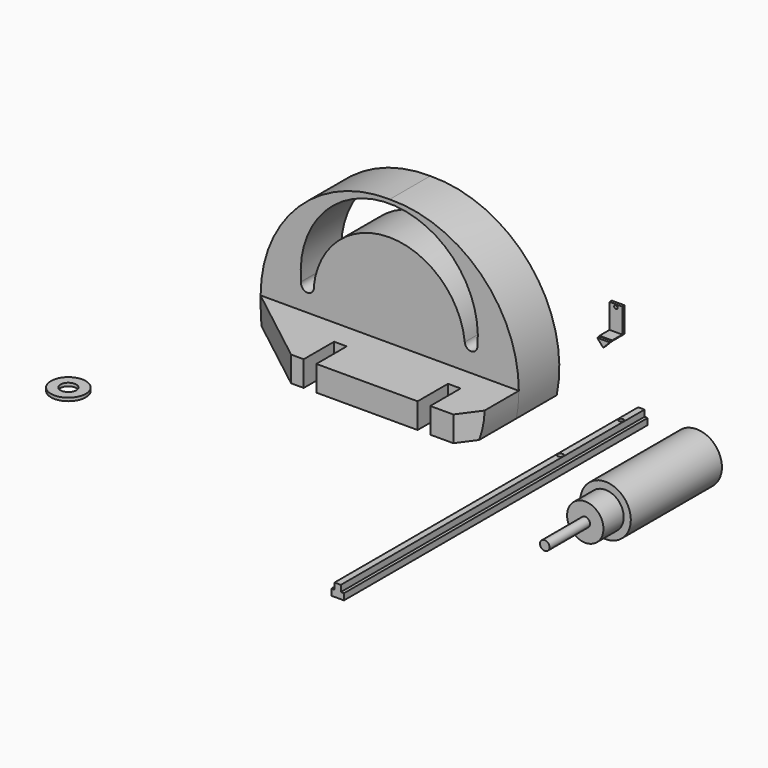
from build123d import *

# Parameters (mm, degrees)
F1_DEPTH  = 25.4
F3_DEPTH  = 31.75
F4_W      = 6.35
F4_H      = 19.05
F5_DEPTH  = 25.4
F7_DEPTH  = 25.4
F9_DEPTH  = 190.5
F11_DEPTH = 25.4
F13_DEPTH = 25.4
F14_R     = 12.7
F15_DEPTH = 57.15
F16_R     = 9.128125
F17_DEPTH = 12.7
F18_R     = 2.38125
F19_DEPTH = 25.4
F21_DEPTH = 25.4
F22_R     = 8.73125
F22_R_2   = 3.96875
F23_DEPTH = 1.5875
F24_W     = 6.35
F24_H     = 12.7
F25_DEPTH = 1.4111111111
F26_W     = 6.35
F26_H     = 0.3355476074
F27_DEPTH = 6.35
F29_DEPTH = 1.4111111111
F31_DEPTH = 25.4
F33_DEPTH = 25.4


with BuildPart() as f1:
    # F0 (on Front) → F1 (new body)
    with BuildSketch(Plane.XZ):
        with BuildLine():
            ThreePointArc((3.6992596686, 31.4069082856), (-46.3684103417, 8.5716332942), (-59.8007403314, -44.7930917144))
            Line((-59.8007403314, -44.7930917144), (3.6992596686, -44.7930917144))
            Line((3.6992596686, -44.7930917144), (3.6992596686, 31.4069082856))
        make_face()
        with BuildLine():
            Line((3.6992596686, 31.4069082856), (3.6992596686, -44.7930917144))
            Line((3.6992596686, -44.7930917144), (67.1992596686, -44.7930917144))
            ThreePointArc((67.1992596686, -44.7930917144), (53.7669296789, 8.5716332942), (3.6992596686, 31.4069082856))
        make_face()
    extrude(amount=F1_DEPTH)

    # F2 (on face) → F3 (join)
    with BuildSketch(Plane.XZ.offset(25.4)):
        with BuildLine():
            Line((3.6992596686, -32.0930917144), (3.6992596686, -44.7930917144))
            Line((3.6992596686, -44.7930917144), (67.1992596686, -44.7930917144))
            ThreePointArc((67.1992596686, -44.7930917144), (68.162001096, -38.4754784131), (68.4848770905, -32.0930917144))
            Line((68.4848770905, -32.0930917144), (3.6992596686, -32.0930917144))
        make_face()
        with BuildLine():
            Line((-59.8007403314, -44.7930917144), (3.6992596686, -44.7930917144))
            Line((3.6992596686, -44.7930917144), (3.6992596686, -32.0930917144))
            Line((3.6992596686, -32.0930917144), (-61.0863577533, -32.0930917144))
            ThreePointArc((-61.0863577533, -32.0930917144), (-60.7634817588, -38.4754784131), (-59.8007403314, -44.7930917144))
        make_face()
    extrude(amount=F3_DEPTH)

    # F4 (on face) → F5 (cut)
    with BuildSketch(Plane.XY.offset(-32.0930917144)):
        with Locations((-10.8901229095, -47.625)):
            Rectangle(F4_W, F4_H)
        with Locations((46.2598770905, -47.625)):
            Rectangle(F4_W, F4_H)
    extrude(amount=-F5_DEPTH, mode=Mode.SUBTRACT)

    # F6 (on face) → F7 (cut)
    with BuildSketch(Plane.XY.offset(-32.0930917144)):
        Polygon((-61.0863577533, -57.15), (-20.4151229095, -57.15), (-61.0863577533, -25.4762284458), align=None)
    extrude(amount=-F7_DEPTH, mode=Mode.SUBTRACT)

    # F10 (on face) → F11 (cut)
    with BuildSketch(Plane.XZ.offset(25.4)):
        with BuildLine():
            ThreePointArc((-34.4060539402, -19.3930917144), (3.4723236964, 14.6034332195), (41.3507013331, -19.3930917144))
            ThreePointArc((41.3507013331, -19.3930917144), (44.5257013331, -22.4471894102), (47.7007013331, -19.3930917144))
            ThreePointArc((47.7007013331, -19.3930917144), (3.4723236964, 29.4900912993), (-40.7560539402, -19.3930917144))
            ThreePointArc((-40.7560539402, -19.3930917144), (-37.5810539402, -23.2547456735), (-34.4060539402, -19.3930917144))
        make_face()
    extrude(amount=-F11_DEPTH, mode=Mode.SUBTRACT)

    # F12 (on face) → F13 (cut)
    with BuildSketch(Plane.XY.offset(-32.0930917144)):
        Polygon((68.4848770905, -46.8841094878), (61.0081470571, -57.15), (68.4848770905, -57.15), align=None)
    extrude(amount=-F13_DEPTH, mode=Mode.SUBTRACT)


with BuildPart() as f9:
    # F8 (on Front) → F9 (new body)
    with BuildSketch(Plane.XZ):
        Polygon((106.4736619592, -40.0025413454), (106.4736619592, -43.1775413454), (112.8236619592, -43.1775413454), (112.8236619592, -40.0025413454), (111.2361619592, -40.0025413454), (111.2361619592, -36.8275413454), (108.0611619592, -36.8275413454), (108.0611619592, -40.0025413454), align=None)
        Polygon((106.4736619592, -40.0025413454), (106.4736619592, -43.1775413454), (112.8236619592, -43.1775413454), (112.8236619592, -40.0025413454), (111.2361619592, -40.0025413454), (111.2361619592, -36.8275413454), (108.0611619592, -36.8275413454), (108.0611619592, -40.0025413454), align=None)
    extrude(amount=F9_DEPTH)

    # F20 (on face) → F21 (cut)
    with BuildSketch(Plane.XY.offset(-36.8275413454)):
        with BuildLine():
            ThreePointArc((111.0547976237, -50.8), (108.6543738955, -49.8057119363), (109.6486619592, -52.2061356645))
            ThreePointArc((109.6486619592, -52.2061356645), (110.6429500228, -51.7942880637), (111.0547976237, -50.8))
        make_face()
    extrude(amount=-F21_DEPTH, mode=Mode.SUBTRACT)

    # F32 (on face) → F33 (cut)
    with BuildSketch(Plane.XY.offset(-36.8275413454)):
        with BuildLine():
            ThreePointArc((110.8244292644, -12.7), (110.4800549938, -11.8686069654), (109.6486619592, -11.5242326948))
            ThreePointArc((109.6486619592, -11.5242326948), (108.8172689246, -13.5313930346), (110.8244292644, -12.7))
        make_face()
    extrude(amount=-F33_DEPTH, mode=Mode.SUBTRACT)


with BuildPart() as f15:
    # F14 (on Front) → F15 (new body)
    with BuildSketch(Plane.XZ):
        with Locations((137.3832821846, -49.6486574411)):
            Circle(F14_R)
        with Locations((137.3832821846, -49.6486574411)):
            Circle(F14_R)
    extrude(amount=F15_DEPTH)

    # F16 (on face) → F17 (join)
    with BuildSketch(Plane.XZ.offset(57.15)):
        with Locations((137.3832821846, -49.6486574411)):
            Circle(F16_R)
    extrude(amount=F17_DEPTH)

    # F18 (on face) → F19 (join)
    with BuildSketch(Plane.XZ.offset(69.85)):
        with Locations((137.3832821846, -49.6486574411)):
            Circle(F18_R)
    extrude(amount=F19_DEPTH)


with BuildPart() as f23:
    # F22 (on Top) → F23 (new body)
    with BuildSketch(Plane.XY):
        with Locations((-30.7379812002, -183.9490532875)):
            Circle(F22_R)
        with Locations((-30.7379812002, -183.9490532875)):
            Circle(F22_R_2, mode=Mode.SUBTRACT)
    extrude(amount=F23_DEPTH)


with BuildPart() as f25:
    # F24 (on Front) → F25 (new body)
    with BuildSketch(Plane.XZ):
        with Locations((98.0204886675, -0.3531546496)):
            Rectangle(F24_W, F24_H)
        with Locations((98.0204886675, -0.3531546496)):
            Rectangle(F24_W, F24_H)
    extrude(amount=F25_DEPTH)

    # F26 (on face) → F27 (join)
    with BuildSketch(Plane.XZ.offset(1.4111111111)):
        with Locations((98.0204886675, -6.5353808459)):
            Rectangle(F26_W, F26_H)
    extrude(amount=F27_DEPTH)

    # F30 (on face) → F31 (cut)
    with BuildSketch(Plane.XZ.offset(1.4111111111)):
        with BuildLine():
            ThreePointArc((98.9151056661, 4.7268453504), (98.6530784137, 5.3594350967), (98.0204886675, 5.621462349))
            ThreePointArc((98.0204886675, 5.621462349), (97.3878989212, 4.0942556042), (98.9151056661, 4.7268453504))
        make_face()
    extrude(amount=-F31_DEPTH, mode=Mode.SUBTRACT)


with BuildPart() as f29:
    # F28 (on face) → F29 (new body)
    with BuildSketch(Plane.XZ.offset(7.7611111111)):
        Polygon((101.1954886675, -6.7031546496), (94.8454886675, -6.7031546496), (97.8352725506, -10.1154381409), align=None)
    extrude(amount=F29_DEPTH)


solid = Compound([f1.part, f9.part, f15.part, f23.part, f25.part, f29.part])
